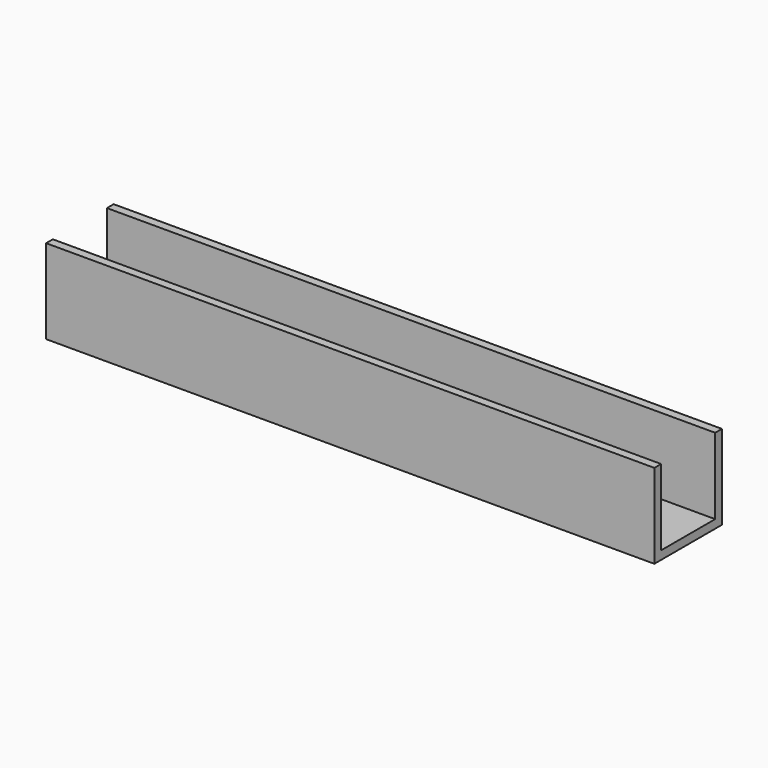
from build123d import *

# Parameters (mm, degrees)
F1_DEPTH = 180
F2_R     = 6.5
F3_DEPTH = 25


with BuildPart() as f1:
    # F0 (on Right) → F1 (new body, symmetric)
    with BuildSketch(Plane.YZ):
        Polygon((-50, 0), (0, 0), (0, 50), (-5, 50), (-5, 5), (-45, 5), (-45, 50), (-50, 50), align=None)
    extrude(amount=F1_DEPTH, both=True)

    # F2 (on face) → F3 (cut)
    with BuildSketch(Plane(origin=(0, 0, 0), x_dir=(1, 0, 0), z_dir=(0, 0, -1))):
        with Locations((-60, 25)):
            Circle(F2_R)
        with Locations((60, 25)):
            Circle(F2_R)
    extrude(amount=-F3_DEPTH, mode=Mode.SUBTRACT)


solid = f1.part
